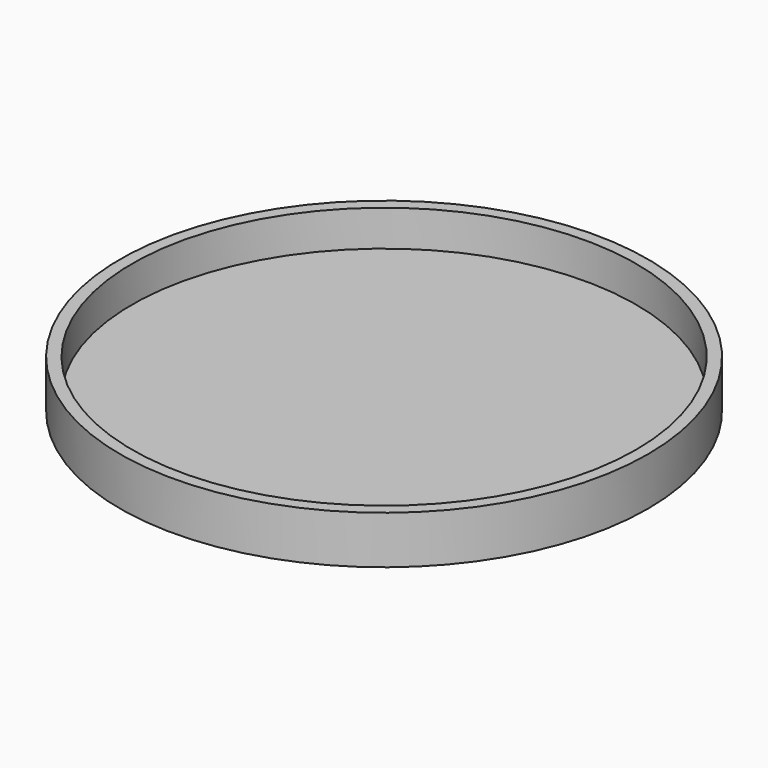
from build123d import *

# Parameters (mm, degrees)
F0_R     = 55
F1_DEPTH = 10
F2_T     = -2.5


with BuildPart() as f1:
    # F0 (on Top) → F1 (new body)
    with BuildSketch(Plane.XY):
        Circle(F0_R)
    extrude(amount=-F1_DEPTH)

    # F2
    f2_openings = [f1.faces().sort_by_distance(p)[0] for p in [
        (0, 0, 0),
    ]]
    offset(amount=F2_T, openings=f2_openings)


solid = f1.part
